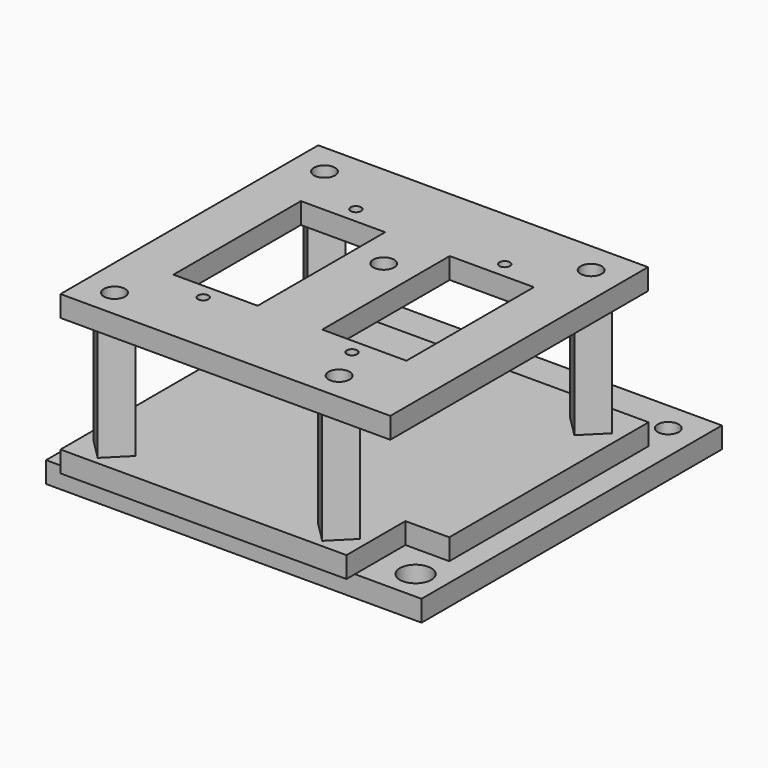
from build123d import *

# Parameters (mm, degrees)
CYLINDER001_R     = 1.5
CYLINDER001_DEPTH = 10
ARRAY001_X_COUNT  = 3
ARRAY001_X_PITCH  = 31.819805
CYLINDER_R        = 2.25
CYLINDER_DEPTH    = 10
ARRAY_X_COUNT     = 2
ARRAY_X_PITCH     = 63.63961
BOX_W             = 53.5
BOX_H             = 53.5
BOX_DEPTH         = 3
CYLINDER009_R     = 1.5
CYLINDER009_DEPTH = 27
PRISM002_DEPTH    = 20
CYLINDER008_R     = 1.5
CYLINDER008_DEPTH = 27
BOX004_W          = 10
BOX004_H          = 11
BOX004_DEPTH      = 3
CYLINDER007_R     = 1.5
CYLINDER007_DEPTH = 27
PRISM001_DEPTH    = 20
CYLINDER003_R     = 1.5
CYLINDER003_DEPTH = 27
ARRAY002_Y_COUNT  = 2
ARRAY002_Y_PITCH  = 37.4
CYLINDER002_R     = 2.5
CYLINDER002_DEPTH = 10
PRISM_DEPTH       = 20
ARRAY003_Y_COUNT  = 2
ARRAY003_Y_PITCH  = 37.4
BOX001_W          = 47
BOX001_H          = 46
BOX001_DEPTH      = 3
CYLINDER011_R     = 1.5
CYLINDER011_DEPTH = 10
CYLINDER010_R     = 1.5
CYLINDER010_DEPTH = 10
CYLINDER006_R     = 0.75
CYLINDER006_DEPTH = 10
ARRAY006_X_COUNT  = 2
ARRAY006_X_PITCH  = 21.2
ARRAY006_Y_COUNT  = 2
ARRAY006_Y_PITCH  = 27.2
BOX003_W          = 12
BOX003_H          = 22.7
BOX003_DEPTH      = 10
ARRAY004_X_COUNT  = 2
ARRAY004_X_PITCH  = 21.2
CYLINDER004_R     = 1.5
CYLINDER004_DEPTH = 10
ARRAY005_Y_COUNT  = 2
ARRAY005_Y_PITCH  = 37.4
CYLINDER005_R     = 1.5
CYLINDER005_DEPTH = 10
BOX002_W          = 47
BOX002_H          = 45.9
BOX002_DEPTH      = 3


with BuildPart() as array001:
    # Cylinder001 → Cylinder001 (new body)
    with BuildSketch(Plane(origin=(4.25, 4.25, 0), x_dir=(1, 0, 0), z_dir=(0, 0, 1))):
        Circle(CYLINDER001_R)
    extrude(amount=CYLINDER001_DEPTH)

    # Array001 X: Array001 ×3


with BuildPart() as array001_1:
    add(array001.part)
    with Locations(*[Vector(0.707107, 0.707107, 0) * (i * ARRAY001_X_PITCH) for i in range(1, ARRAY001_X_COUNT)]):
        add(array001.part)


with BuildPart() as taladros:
    # Cylinder → Cylinder (new body)
    with BuildSketch(Plane(origin=(4.25, 49.25, -4), x_dir=(1, 0, 0), z_dir=(0, 0, 1))):
        Circle(CYLINDER_R)
    extrude(amount=CYLINDER_DEPTH)

    # Array X: Taladros ×2


with BuildPart() as taladros_1:
    add(taladros.part)
    with Locations(*[Vector(0.707107, -0.707107, 0) * (i * ARRAY_X_PITCH) for i in range(1, ARRAY_X_COUNT)]):
        add(taladros.part)

    # Fusion: union Array001
    add(array001_1.part)


with BuildPart() as fuel_temp_plate:
    # Box → Box (new body)
    with BuildSketch(Plane.XY):
        with Locations((26.75, 26.75)):
            Rectangle(BOX_W, BOX_H)
    extrude(amount=BOX_DEPTH)

    # Cut: cut Taladros
    add(taladros_1.part, mode=Mode.SUBTRACT)


with BuildPart() as cylinder009:
    # Cylinder009 → Cylinder009 (new body)
    with BuildSketch(Plane(origin=(39.75, 2.5, 0), x_dir=(1, 0, 0), z_dir=(0, 0, 1))):
        Circle(CYLINDER009_R)
    extrude(amount=CYLINDER009_DEPTH)


with BuildPart() as cut006:
    # Prism002 → Prism002 (new body)
    with BuildSketch(Plane(origin=(39.75, 2.5, 3), x_dir=(1, 0, 0), z_dir=(0, 0, 1))):
        Polygon((3, 0), (0, 3), (-3, 0), (0, -3), align=None)
    extrude(amount=PRISM002_DEPTH)

    # Cut006: cut Cylinder009
    add(cylinder009.part, mode=Mode.SUBTRACT)


with BuildPart() as cylinder008:
    # Cylinder008 → Cylinder008 (new body)
    with BuildSketch(Plane(origin=(39.75, 2.5, 0), x_dir=(1, 0, 0), z_dir=(0, 0, 1))):
        Circle(CYLINDER008_R)
    extrude(amount=CYLINDER008_DEPTH)


with BuildPart() as obj1:
    # Box004 → Box004 (new body)
    with BuildSketch(Plane(origin=(44, -2, 3), x_dir=(1, 0, 0), z_dir=(0, 0, 1))):
        with Locations((5, 5.5)):
            Rectangle(BOX004_W, BOX004_H)
    extrude(amount=BOX004_DEPTH)


with BuildPart() as cylinder007:
    # Cylinder007 → Cylinder007 (new body)
    with BuildSketch(Plane(origin=(45.75, 39.9, 0), x_dir=(1, 0, 0), z_dir=(0, 0, 1))):
        Circle(CYLINDER007_R)
    extrude(amount=CYLINDER007_DEPTH)


with BuildPart() as prism001:
    # Prism001 → Prism001 (new body)
    with BuildSketch(Plane(origin=(45.75, 39.9, 3), x_dir=(1, 0, 0), z_dir=(0, 0, 1))):
        Polygon((3, 0), (0, 3), (-3, 0), (0, -3), align=None)
    extrude(amount=PRISM001_DEPTH)


with BuildPart() as array002:
    # Cylinder003 → Cylinder003 (new body)
    with BuildSketch(Plane(origin=(7.75, 2.5, 0), x_dir=(1, 0, 0), z_dir=(0, 0, 1))):
        Circle(CYLINDER003_R)
    extrude(amount=CYLINDER003_DEPTH)

    # Array002 Y: Array002 ×2


with BuildPart() as array002_1:
    add(array002.part)
    with Locations(*[(0, i * ARRAY002_Y_PITCH, 0) for i in range(1, ARRAY002_Y_COUNT)]):
        add(array002.part)


with BuildPart() as fusion002:
    # Cylinder002 → Cylinder002 (new body)
    with BuildSketch(Plane(origin=(26.75, 26.75, 0), x_dir=(1, 0, 0), z_dir=(0, 0, 1))):
        Circle(CYLINDER002_R)
    extrude(amount=CYLINDER002_DEPTH)

    # Fusion002: union Array002
    add(array002_1.part)


with BuildPart() as obj2:
    # Prism → Prism (new body)
    with BuildSketch(Plane(origin=(7.75, 2.5, 3), x_dir=(1, 0, 0), z_dir=(0, 0, 1))):
        Polygon((3, 0), (0, 3), (-3, 0), (0, -3), align=None)
    extrude(amount=PRISM_DEPTH)

    # Array003 Y: obj2 ×2


with BuildPart() as obj2_1:
    add(obj2.part)
    with Locations(*[(0, i * ARRAY003_Y_PITCH, 0) for i in range(1, ARRAY003_Y_COUNT)]):
        add(obj2.part)


with BuildPart() as top_plate_final:
    # Box001 → Box001 (new body)
    with BuildSketch(Plane(origin=(3.25, -1.5, 3), x_dir=(1, 0, 0), z_dir=(0, 0, 1))):
        with Locations((23.5, 23)):
            Rectangle(BOX001_W, BOX001_H)
    extrude(amount=BOX001_DEPTH)

    # Fusion001: union obj2
    add(obj2_1.part)

    # Cut001: cut Fusion002
    add(fusion002.part, mode=Mode.SUBTRACT)

    # Fusion004: union Prism001
    add(prism001.part)

    # Cut003: cut Cylinder007
    add(cylinder007.part, mode=Mode.SUBTRACT)

    # Cut004: cut obj1
    add(obj1.part, mode=Mode.SUBTRACT)

    # Cut005: cut Cylinder008
    add(cylinder008.part, mode=Mode.SUBTRACT)

    # Fusion005: union Cut006
    add(cut006.part)


with BuildPart() as cylinder011:
    # Cylinder011 → Cylinder011 (new body)
    with BuildSketch(Plane(origin=(39.75, 2.5, 18.5), x_dir=(1, 0, 0), z_dir=(0, 0, 1))):
        Circle(CYLINDER011_R)
    extrude(amount=CYLINDER011_DEPTH)


with BuildPart() as cylinder010:
    # Cylinder010 → Cylinder010 (new body)
    with BuildSketch(Plane(origin=(45.75, 39.9, 19.5), x_dir=(1, 0, 0), z_dir=(0, 0, 1))):
        Circle(CYLINDER010_R)
    extrude(amount=CYLINDER010_DEPTH)


with BuildPart() as array006:
    # Cylinder006 → Cylinder006 (new body)
    with BuildSketch(Plane(origin=(16.15, 7.8, 19.5), x_dir=(1, 0, 0), z_dir=(0, 0, 1))):
        Circle(CYLINDER006_R)
    extrude(amount=CYLINDER006_DEPTH)

    # Array006 X: Array006 ×2


with BuildPart() as array006_1:
    add(array006.part)
    with Locations(*[(i * ARRAY006_X_PITCH, 0, 0) for i in range(1, ARRAY006_X_COUNT)]):
        add(array006.part)

    # Array006 Y: Array006 ×2


with BuildPart() as array006_2:
    add(array006_1.part)
    with Locations(*[(0, i * ARRAY006_Y_PITCH, 0) for i in range(1, ARRAY006_Y_COUNT)]):
        add(array006_1.part)


with BuildPart() as array_taladro_servomotor:
    # Box003 → Box003 (new body)
    with BuildSketch(Plane(origin=(10.15, 10, 19.5), x_dir=(1, 0, 0), z_dir=(0, 0, 1))):
        with Locations((6, 11.35)):
            Rectangle(BOX003_W, BOX003_H)
    extrude(amount=BOX003_DEPTH)

    # Array004 X: Array taladro servomotor ×2


with BuildPart() as array_taladro_servomotor_1:
    add(array_taladro_servomotor.part)
    with Locations(*[(i * ARRAY004_X_PITCH, 0, 0) for i in range(1, ARRAY004_X_COUNT)]):
        add(array_taladro_servomotor.part)


with BuildPart() as array005:
    # Cylinder004 → Cylinder004 (new body)
    with BuildSketch(Plane(origin=(7.75, 2.5, 19.5), x_dir=(1, 0, 0), z_dir=(0, 0, 1))):
        Circle(CYLINDER004_R)
    extrude(amount=CYLINDER004_DEPTH)

    # Array005 Y: Array005 ×2


with BuildPart() as array005_1:
    add(array005.part)
    with Locations(*[(0, i * ARRAY005_Y_PITCH, 0) for i in range(1, ARRAY005_Y_COUNT)]):
        add(array005.part)


with BuildPart() as fusion003:
    # Cylinder005 → Cylinder005 (new body)
    with BuildSketch(Plane(origin=(26.75, 26.7, 19.5), x_dir=(1, 0, 0), z_dir=(0, 0, 1))):
        Circle(CYLINDER005_R)
    extrude(amount=CYLINDER005_DEPTH)

    # Fusion003: union Array006, Array taladro servomotor, Array005
    add(array006_2.part)
    add(array_taladro_servomotor_1.part)
    add(array005_1.part)


with BuildPart() as base_final:
    # Box002 → Box002 (new body)
    with BuildSketch(Plane(origin=(3.25, -1.5, 22.5), x_dir=(1, 0, 0), z_dir=(0, 0, 1))):
        with Locations((23.5, 22.95)):
            Rectangle(BOX002_W, BOX002_H)
    extrude(amount=BOX002_DEPTH)

    # Cut002: cut Fusion003
    add(fusion003.part, mode=Mode.SUBTRACT)

    # Cut007: cut Cylinder010
    add(cylinder010.part, mode=Mode.SUBTRACT)

    # Cut008: cut Cylinder011
    add(cylinder011.part, mode=Mode.SUBTRACT)


solid = Compound([fuel_temp_plate.part, top_plate_final.part, base_final.part])
